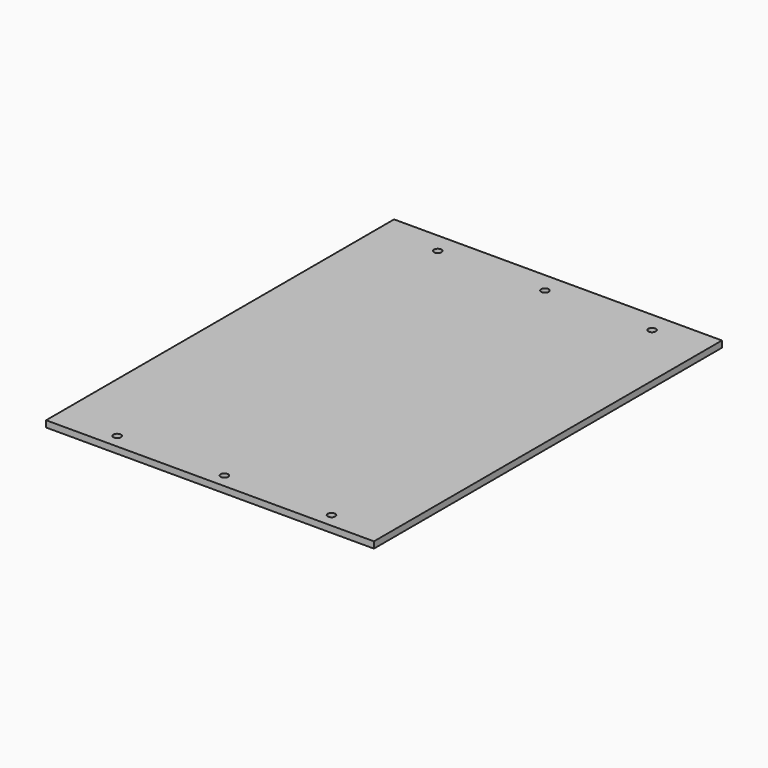
from build123d import *

# Parameters (mm, degrees)
SKETCH_W  = 153
SKETCH_H  = 203
SKETCH_R  = 1.75
PAD_DEPTH = 3


with BuildPart() as part:
    # Sketch → Pad (new body)
    with BuildSketch(Plane.XY):
        with Locations((-76.5, 101.5)):
            Rectangle(SKETCH_W, SKETCH_H)
        with Locations((-125, 193.5)):
            Circle(SKETCH_R, mode=Mode.SUBTRACT)
        with Locations((-125, 6.5)):
            Circle(SKETCH_R, mode=Mode.SUBTRACT)
        with Locations((-25, 6.5)):
            Circle(SKETCH_R, mode=Mode.SUBTRACT)
        with Locations((-75, 6.5)):
            Circle(SKETCH_R, mode=Mode.SUBTRACT)
        with Locations((-25, 193.5)):
            Circle(SKETCH_R, mode=Mode.SUBTRACT)
        with Locations((-75, 193.5)):
            Circle(SKETCH_R, mode=Mode.SUBTRACT)
    extrude(amount=PAD_DEPTH)


solid = part.part
